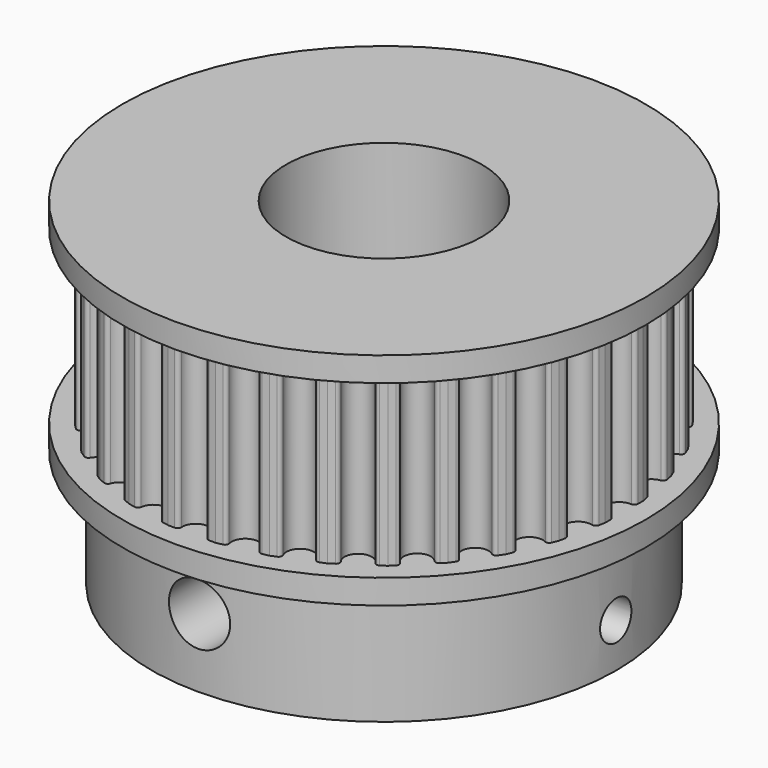
from build123d import *

# Parameters (mm, degrees)
SKETCH_R             = 10.685918
PAD_DEPTH            = 9
POCKET_DEPTH         = 7
POLARPATTERN_COUNT   = 32
SKETCH002_R          = 9.5
PAD001_DEPTH         = 4.8
SKETCH003_R          = 4
POCKET001_DEPTH      = 4.801
POCKET001_DEPTH_BACK = 9.001
SKETCH004_R          = 0.8
HOLE_DEPTH           = 500
HOLE001_DEPTH        = 50
SKETCH005_R          = 1.25
HOLE002_DEPTH        = 50
HOLE003_DEPTH        = 50


with BuildPart() as part:
    # Sketch → Pad (new body)
    with BuildSketch(Plane.XY):
        Circle(SKETCH_R)
    extrude(amount=PAD_DEPTH)

    # Sketch001 (on Face3 of Pad) → Pocket (cut)
    with BuildSketch(Plane.XY.offset(8)):
        with BuildLine():
            ThreePointArc((-0.553173, 9.659918), (0, 9.059918), (0.553173, 9.659918))
            ThreePointArc((0.703173, 9.809918), (0.597107, 9.765984), (0.553173, 9.659918))
            Line((0.703173, 9.809918), (1, 9.809918))
            Line((1.203875, 11.809918), (1, 9.809918))
            Line((-1.203875, 11.809918), (1.203875, 11.809918))
            Line((-1, 9.809918), (-1.203875, 11.809918))
            Line((-0.703173, 9.809918), (-1, 9.809918))
            ThreePointArc((-0.553173, 9.659918), (-0.597107, 9.765984), (-0.703173, 9.809918))
        make_face()
    pocket = extrude(amount=-POCKET_DEPTH, mode=Mode.SUBTRACT)

    # PolarPattern: Pocket ×32 about axis
    polarpattern_axis = Axis((0, 0, 0), (0, 0, 1))
    for i in range(1, POLARPATTERN_COUNT):
        add(pocket.rotate(polarpattern_axis, i * 360 / POLARPATTERN_COUNT), mode=Mode.SUBTRACT)

    # Sketch002 → Pad001 (join)
    with BuildSketch(Plane(origin=(0, 0, 0), x_dir=(1, 0, 0), z_dir=(0, 0, -1))):
        Circle(SKETCH002_R)
    extrude(amount=PAD001_DEPTH)

    # Sketch003 → Pocket001 (cut, two sides)
    with BuildSketch(Plane(origin=(0, 0, 0), x_dir=(1, 0, 0), z_dir=(0, 0, -1))) as pocket001_sk:
        Circle(SKETCH003_R)
    extrude(amount=POCKET001_DEPTH, mode=Mode.SUBTRACT)
    extrude(pocket001_sk.sketch, amount=-POCKET001_DEPTH_BACK, mode=Mode.SUBTRACT)

    # Sketch004 → Hole (cut)
    with BuildSketch(Plane.YZ):
        with Locations((0, -3)):
            Circle(SKETCH004_R)
    extrude(amount=-HOLE_DEPTH, mode=Mode.SUBTRACT)

    # Sketch004 → Hole001 (cut)
    with BuildSketch(Plane.YZ):
        with Locations((0, -3)):
            Circle(SKETCH004_R)
    extrude(amount=HOLE001_DEPTH, mode=Mode.SUBTRACT)

    # Sketch005 → Hole002 (cut)
    with BuildSketch(Plane.XZ):
        with Locations((0, -2)):
            Circle(SKETCH005_R)
    extrude(amount=-HOLE002_DEPTH, mode=Mode.SUBTRACT)

    # Sketch005 → Hole003 (cut)
    with BuildSketch(Plane.XZ):
        with Locations((0, -2)):
            Circle(SKETCH005_R)
    extrude(amount=HOLE003_DEPTH, mode=Mode.SUBTRACT)


solid = part.part
